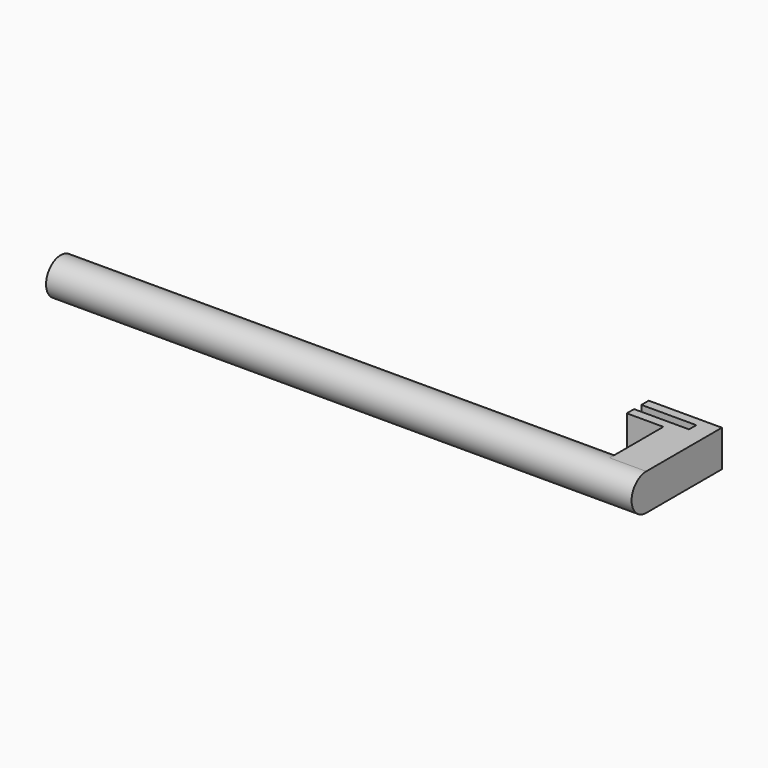
from build123d import *

# Parameters (mm, degrees)
F0_R      = 2.54
F1_DEPTH  = 76.2
F3_DEPTH  = 5.08
F4_W      = 5.08
F4_H      = 5.08
F4_W_2    = 2.54
F5_DEPTH  = 1.27
F3_FACE_W = 2.54
F3_FACE_H = 5.08
F6_DEPTH  = 3.81
F7_W      = 1.27
F7_H      = 5.08
F8_DEPTH  = 7.62


with BuildPart() as f1:
    # F0 (on Right) → F1 (new body)
    with BuildSketch(Plane.YZ):
        with Locations((-37.062876, 39.933953)):
            Circle(F0_R)
    extrude(amount=F1_DEPTH)

    # F2 (on face) → F3 (join)
    with BuildSketch(Plane.YZ.offset(76.2)):
        with BuildLine():
            Line((-27.742092, 42.473953), (-37.062876, 42.473953))
            ThreePointArc((-37.062876, 42.473953), (-35.266825, 41.730005), (-34.522876, 39.933953))
            ThreePointArc((-34.522876, 39.933953), (-35.266825, 38.137902), (-37.062876, 37.393953))
            Line((-37.062876, 37.393953), (-27.742092, 37.393953))
            Line((-27.742092, 37.393953), (-27.742092, 42.473953))
        make_face()
        with BuildLine():
            Line((-37.062876, 42.473953), (-37.062876, 39.933953))
            Line((-37.062876, 39.933953), (-37.062876, 37.393953))
            ThreePointArc((-37.062876, 37.393953), (-35.266825, 38.137902), (-34.522876, 39.933953))
            ThreePointArc((-34.522876, 39.933953), (-35.266825, 41.730005), (-37.062876, 42.473953))
        make_face()
        with BuildLine():
            Line((-37.062876, 37.393953), (-37.062876, 39.933953))
            Line((-37.062876, 39.933953), (-37.062876, 42.473953))
            ThreePointArc((-37.062876, 42.473953), (-39.602876, 39.933953), (-37.062876, 37.393953))
        make_face()
    extrude(amount=F3_DEPTH)

    # F4 (on face) → F5 (join)
    with BuildSketch(Plane(origin=(0, -27.742092, 0), x_dir=(-1, 0, 0), z_dir=(0, 1, 0))):
        with Locations((-73.66, 39.933953)):
            Rectangle(F4_W, F4_H)
        with Locations((-77.47, 39.933953)):
            Rectangle(F4_W_2, F4_H)
    extrude(amount=F5_DEPTH)

    # F3_face (on face) → F6 (join)
    with BuildSketch(Plane(origin=(78.74, -27.742092, 39.933953), x_dir=(-1, 0, 0), z_dir=(0, 1, 0))):
        with Locations((-1.27, 0)):
            Rectangle(F3_FACE_W, F3_FACE_H)
    extrude(amount=F6_DEPTH)

    # F7 (on face) → F8 (join)
    with BuildSketch(Plane(origin=(78.74, 0, 0), x_dir=(0, -1, 0), z_dir=(-1, 0, 0))):
        with Locations((24.567092, 39.933953)):
            Rectangle(F7_W, F7_H)
    extrude(amount=F8_DEPTH)


solid = f1.part
